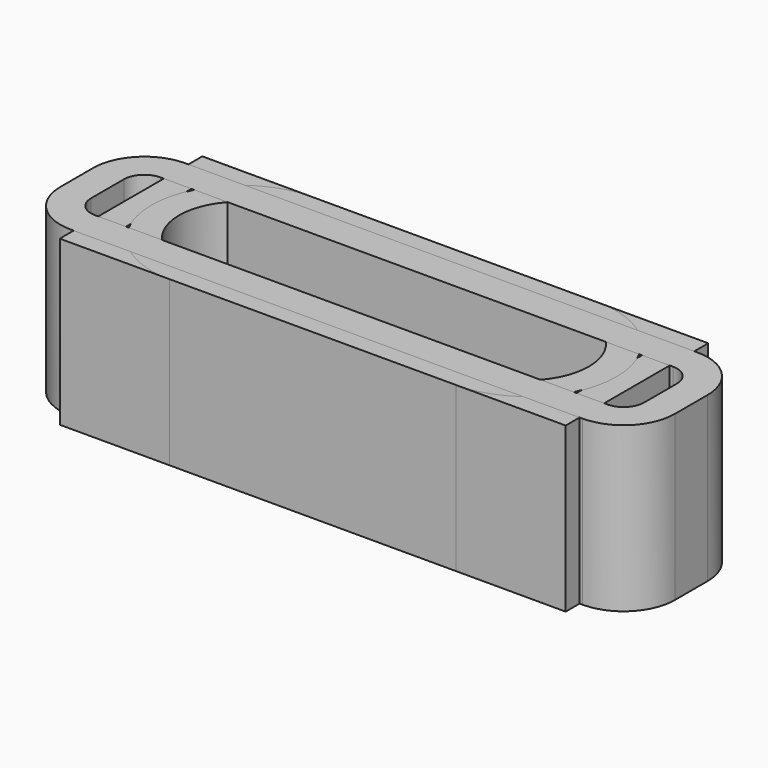
from build123d import *

# Parameters (mm, degrees)
SKETCH_W     = 24.7
SKETCH_H     = 8.7
SKETCH_W_2   = 22
SKETCH_H_2   = 6
PAD_DEPTH    = 8
PAD001_DEPTH = 8
PAD002_DEPTH = 8


with BuildPart() as body:
    # Sketch → Pad (new body)
    with BuildSketch(Plane.XY):
        Rectangle(SKETCH_W, SKETCH_H)
        Rectangle(SKETCH_W_2, SKETCH_H_2, mode=Mode.SUBTRACT)
    extrude(amount=PAD_DEPTH)


with BuildPart() as body001:
    # Sketch001 → Pad001 (new body)
    with BuildSketch(Plane.XY):
        with BuildLine():
            ThreePointArc((-7, 4.35), (-11.35, 0), (-7, -4.35))
            Line((-7, -4.35), (7, -4.35))
            ThreePointArc((7, -4.35), (11.35, 0), (7, 4.35))
            Line((-7, 4.35), (7, 4.35))
        make_face()
        with BuildLine():
            ThreePointArc((-7, 3), (-10, 0), (-7, -3))
            Line((-7, -3), (7, -3))
            ThreePointArc((7, -3), (10, 0), (7, 3))
            Line((-7, 3), (7, 3))
        make_face(mode=Mode.SUBTRACT)
    extrude(amount=PAD001_DEPTH)


with BuildPart() as body002:
    # Sketch002 → Pad002 (new body)
    with BuildSketch(Plane.XY):
        with BuildLine():
            ThreePointArc((-12.5, 3.5), (-14.267767, 2.767767), (-15, 1))
            Line((-15, -1), (-15, 1))
            ThreePointArc((-15, -1), (-14.267767, -2.767767), (-12.5, -3.5))
            Line((12.5, -3.5), (-12.5, -3.5))
            ThreePointArc((12.5, -3.5), (14.267767, -2.767767), (15, -1))
            Line((15, 1), (15, -1))
            ThreePointArc((15, 1), (14.267767, 2.767767), (12.5, 3.5))
            Line((-12.5, 3.5), (12.5, 3.5))
        make_face()
        with BuildLine():
            ThreePointArc((-12.5, 2), (-13.207107, 1.707107), (-13.5, 1))
            Line((-13.5, -1), (-13.5, 1))
            ThreePointArc((-13.5, -1), (-13.207107, -1.707107), (-12.5, -2))
            Line((12.5, -2), (-12.5, -2))
            ThreePointArc((12.5, -2), (13.207107, -1.707107), (13.5, -1))
            Line((13.5, 1), (13.5, -1))
            ThreePointArc((13.5, 1), (13.207107, 1.707107), (12.5, 2))
            Line((-12.5, 2), (12.5, 2))
        make_face(mode=Mode.SUBTRACT)
    extrude(amount=PAD002_DEPTH)


solid = Compound([body.part, body001.part, body002.part])
